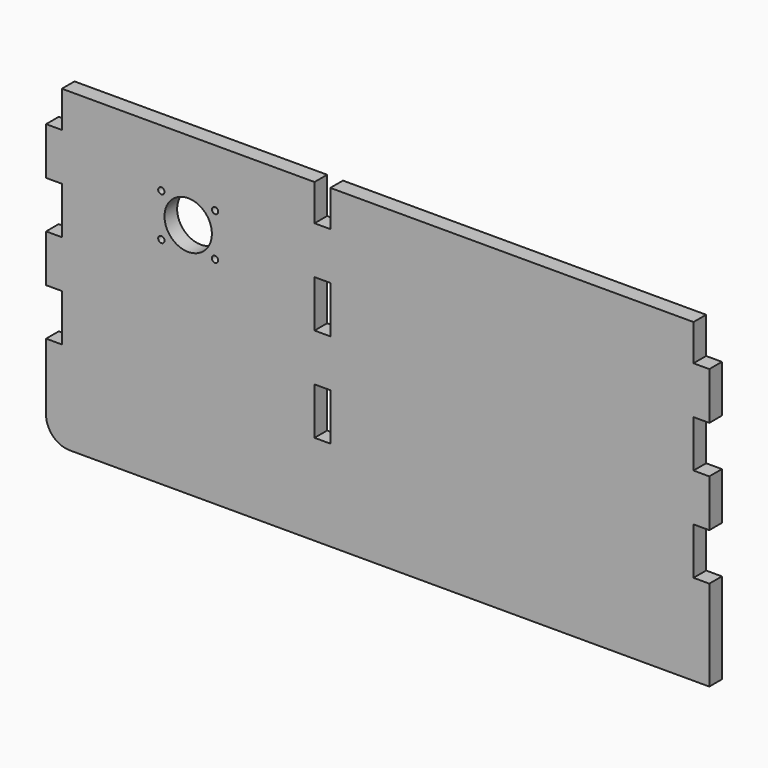
from build123d import *

# Parameters (mm, degrees)
SKETCH_W          = 10
SKETCH_H          = 29.8
PAD_DEPTH         = 10
COPYSKETCH001_R   = 2
COPYSKETCH001_R_2 = 15
POCKET_DEPTH      = 10.001
FILLET_R          = 15


with BuildPart() as part:
    # Sketch → Pad (new body)
    with BuildSketch(Plane.XZ):
        Polygon((0, 0), (0, 57.4), (10, 57.4), (10, 87.2), (0, 87.2), (0, 117.2), (10, 117.2), (10, 147), (0, 147), (0, 177), (10, 177), (10, 200), (170, 200), (170, 177), (180, 177), (180, 200), (410, 200), (410, 177), (420, 177), (420, 147), (410, 147), (410, 117.2), (420, 117.2), (420, 87.2), (410, 87.2), (410, 57.4), (420, 57.4), (420, 0), align=None)
        with Locations((175, 132.1)):
            Rectangle(SKETCH_W, SKETCH_H, mode=Mode.SUBTRACT)
        with Locations((175, 72.3)):
            Rectangle(SKETCH_W, SKETCH_H, mode=Mode.SUBTRACT)
    extrude(amount=PAD_DEPTH)

    # CopySketch001 → Pocket (cut, through all)
    with BuildSketch(Plane.XZ):
        with Locations((73, 163.6)):
            Circle(COPYSKETCH001_R)
        with Locations((107, 163.6)):
            Circle(COPYSKETCH001_R)
        with Locations((107, 136.4)):
            Circle(COPYSKETCH001_R)
        with Locations((73, 136.4)):
            Circle(COPYSKETCH001_R)
        with Locations((90, 150)):
            Circle(COPYSKETCH001_R_2)
    extrude(amount=POCKET_DEPTH, mode=Mode.SUBTRACT)

    # Fillet
    fillet_edges = [part.edges().sort_by_distance(p)[0] for p in [
        (0, -5, 0),
    ]]
    fillet(fillet_edges, radius=FILLET_R)


solid = part.part
